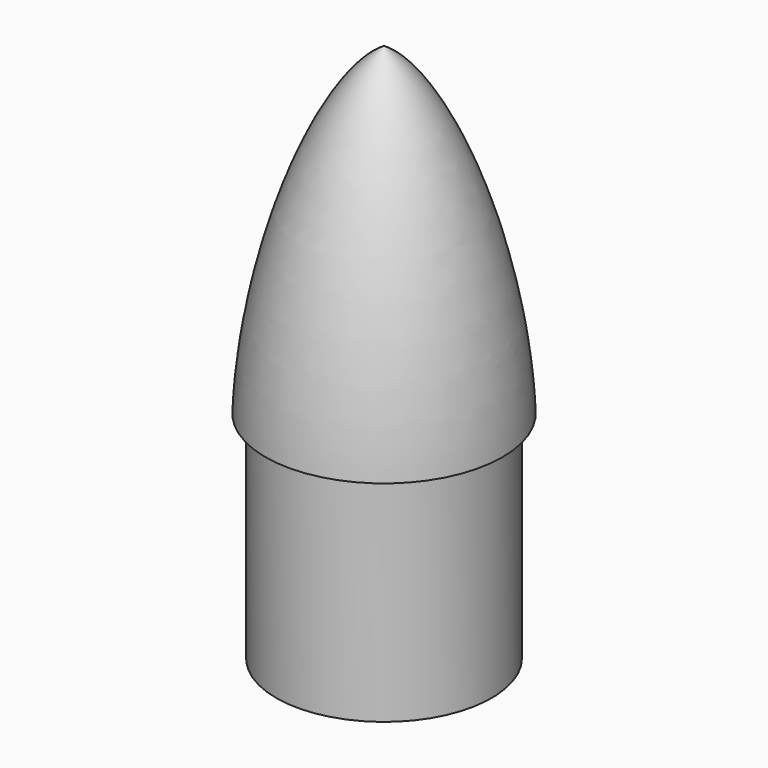
from build123d import *


with BuildPart() as f1:
    # F0 (on Front) → F1 (revolve)
    with BuildSketch(Plane.XZ):
        with BuildLine():
            Line((-100, 26.229402), (-100, -173.770598))
            Line((-100, -173.770598), (-90, -173.770598))
            Line((-90, -173.770598), (-90, 26.229402))
            add(Edge.make_bspline(
                [(-90, 26.229402), (-96.348074, 189.047821), (-13.285535, 290.059544), (0, 306.186987)],
                knots=[0, 0, 0, 0, 293.860701, 293.860701, 293.860701, 293.860701], degree=3))
            Line((0, 306.186987), (0, 326.229402))
            add(Edge.make_bspline(
                [(-110, 26.229402), (-104.572132, 158.797954), (-49.587771, 299.109106), (0, 326.229402)],
                knots=[0, 0, 0, 0, 319.530906, 319.530906, 319.530906, 319.530906], degree=3))
            Line((-110, 26.229402), (-100, 26.229402))
        make_face()
    revolve(axis=Axis((0, 0, 88.752098), (0, 0, 1)))


solid = f1.part
